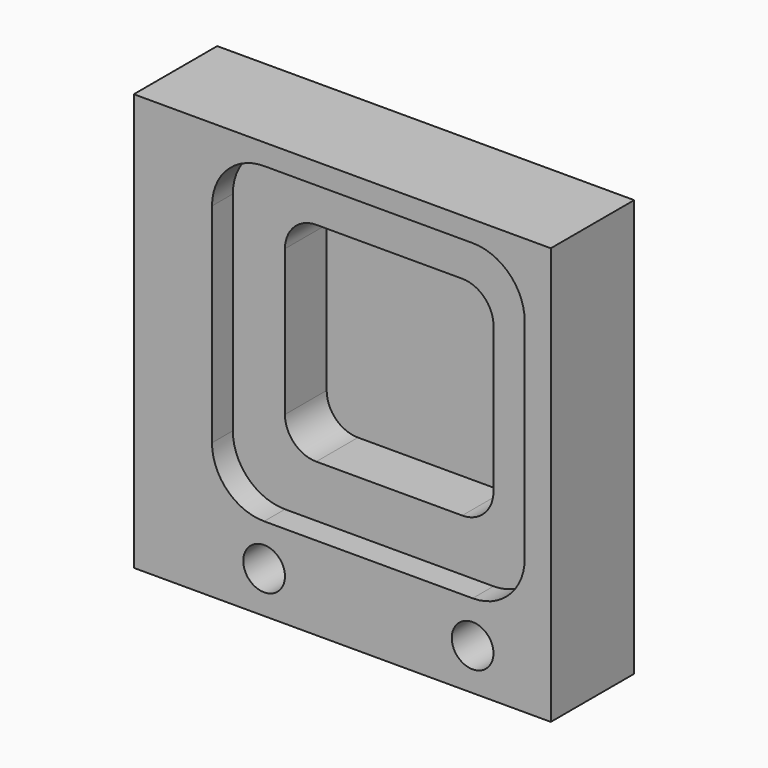
from build123d import *

# Parameters (mm, degrees)
F0_W     = 80
F0_H     = 80
F0_R     = 4
F1_DEPTH = 15
F2_W     = 80
F2_H     = 80
F3_DEPTH = 5
F5_DEPTH = 15
F7_DEPTH = 5


with BuildPart() as f1:
    # F0 (on Front) → F1 (new body)
    with BuildSketch(Plane.XZ):
        with Locations((-5, -6)):
            Rectangle(F0_W, F0_H)
        with Locations((-20, -38)):
            Circle(F0_R, mode=Mode.SUBTRACT)
        with Locations((20, -38)):
            Circle(F0_R, mode=Mode.SUBTRACT)
        with BuildLine():
            ThreePointArc((30, -20), (27.071068, -27.071068), (20, -30))
            Line((20, -30), (-20, -30))
            ThreePointArc((-20, -30), (-27.071068, -27.071068), (-30, -20))
            Line((-30, -20), (-30, 20))
            ThreePointArc((-30, 20), (-27.071068, 27.071068), (-20, 30))
            Line((-20, 30), (20, 30))
            ThreePointArc((20, 30), (27.071068, 27.071068), (30, 20))
            Line((30, 20), (30, -20))
        make_face(mode=Mode.SUBTRACT)
    extrude(amount=F1_DEPTH)

    # F2 (on face) → F3 (join)
    with BuildSketch(Plane(origin=(0, 0, 0), x_dir=(-1, 0, 0), z_dir=(0, 1, 0))):
        with Locations((5, -6)):
            Rectangle(F2_W, F2_H)
        with BuildLine():
            Line((20, -30), (-20, -30))
            ThreePointArc((-20, -30), (-27.071068, -27.071068), (-30, -20))
            Line((-30, -20), (-30, 20))
            ThreePointArc((-30, 20), (-27.071068, 27.071068), (-20, 30))
            Line((-20, 30), (20, 30))
            ThreePointArc((20, 30), (27.071068, 27.071068), (30, 20))
            Line((30, 20), (30, -20))
            ThreePointArc((30, -20), (27.071068, -27.071068), (20, -30))
        make_face(mode=Mode.SUBTRACT)
    extrude(amount=F3_DEPTH)


with BuildPart() as f5:
    # F4 (on face) → F5 (new body)
    with BuildSketch(Plane(origin=(0, 5, 0), x_dir=(-1, 0, 0), z_dir=(0, 1, 0))):
        with BuildLine():
            ThreePointArc((-30, -20), (-27.071068, -27.071068), (-20, -30))
            Line((-20, -30), (20, -30))
            ThreePointArc((20, -30), (27.071068, -27.071068), (30, -20))
            Line((30, -20), (30, 20))
            ThreePointArc((30, 20), (27.071068, 27.071068), (20, 30))
            Line((20, 30), (-20, 30))
            ThreePointArc((-20, 30), (-27.071068, 27.071068), (-30, 20))
            Line((-30, 20), (-30, -20))
        make_face()
        with BuildLine():
            Line((14, -20), (-14, -20))
            ThreePointArc((-14, -20), (-18.242641, -18.242641), (-20, -14))
            Line((-20, -14), (-20, 14))
            ThreePointArc((-20, 14), (-18.242641, 18.242641), (-14, 20))
            Line((-14, 20), (14, 20))
            ThreePointArc((14, 20), (18.242641, 18.242641), (20, 14))
            Line((20, 14), (20, -14))
            ThreePointArc((20, -14), (18.242641, -18.242641), (14, -20))
        make_face(mode=Mode.SUBTRACT)
    extrude(amount=-F5_DEPTH)

    # F6 (on face) → F7 (join)
    with BuildSketch(Plane(origin=(0, 5, 0), x_dir=(-1, 0, 0), z_dir=(0, 1, 0))):
        with BuildLine():
            ThreePointArc((-20, -14), (-18.242641, -18.242641), (-14, -20))
            Line((-14, -20), (14, -20))
            ThreePointArc((14, -20), (18.242641, -18.242641), (20, -14))
            Line((20, -14), (20, 14))
            ThreePointArc((20, 14), (18.242641, 18.242641), (14, 20))
            Line((14, 20), (-14, 20))
            ThreePointArc((-14, 20), (-18.242641, 18.242641), (-20, 14))
            Line((-20, 14), (-20, -14))
        make_face()
    extrude(amount=-F7_DEPTH)


solid = Compound([f1.part, f5.part])
